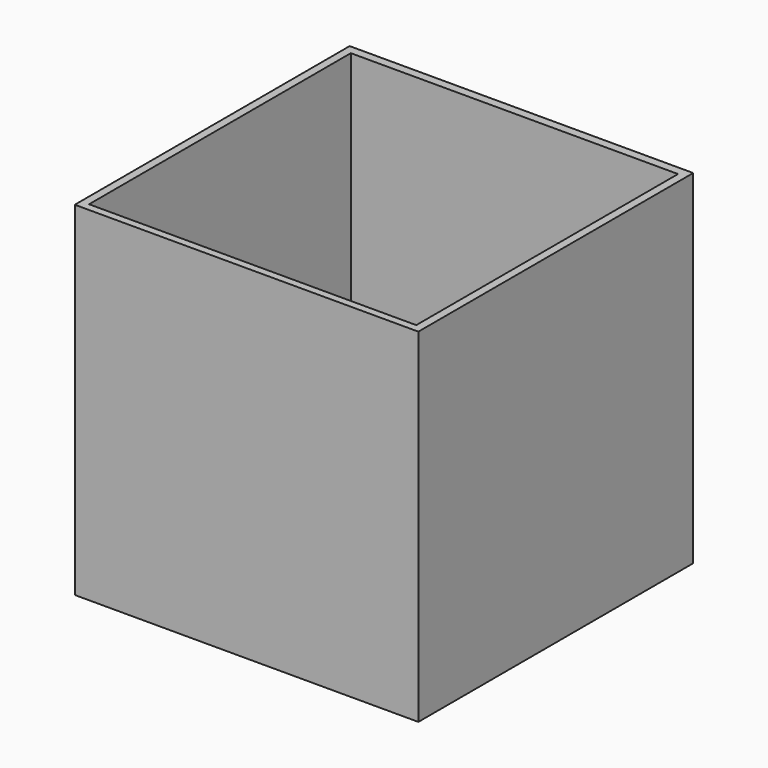
from build123d import *

# Parameters (mm, degrees)
F1_DEPTH = 105


with BuildPart() as f1:
    # F0 (on Top) → F1 (new body)
    with BuildSketch(Plane.XY):
        Polygon((-47.451783, 161.583327), (-47.451783, 56.583327), (57.548217, 56.583327), (57.548217, 161.583327), (-44.951783, 161.583327), align=None)
        Polygon((-44.951783, 109.083327), (-44.951783, 158.90345), (55.048217, 158.90345), (55.048217, 58.90345), (-44.951783, 58.90345), align=None, mode=Mode.SUBTRACT)
    extrude(amount=-F1_DEPTH)


solid = f1.part
